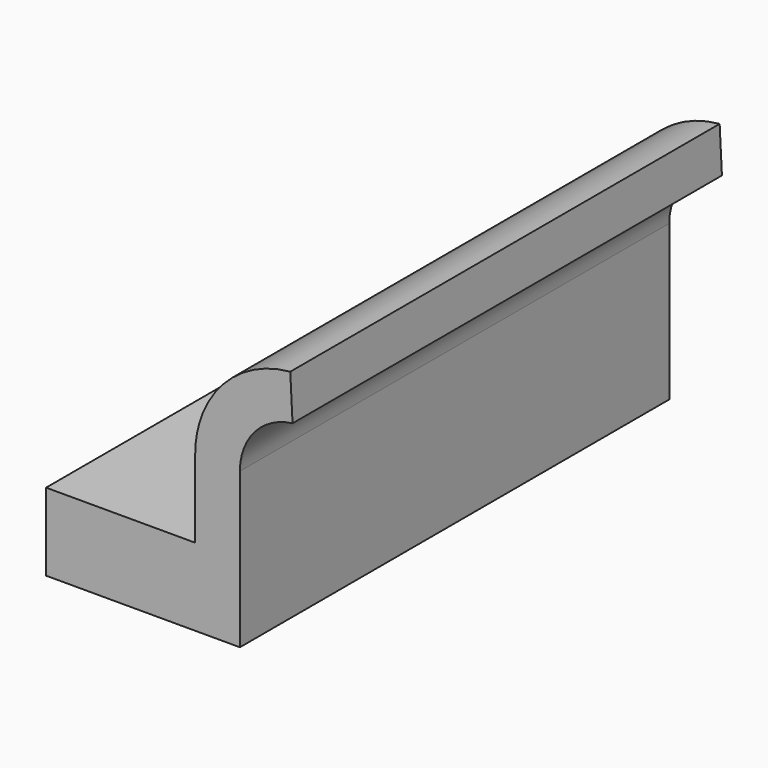
from build123d import *

# Parameters (mm, degrees)
F1_DEPTH = 114.3


with BuildPart() as f1:
    # F0 (on Front) → F1 (new body, symmetric)
    with BuildSketch(Plane.XZ):
        Polygon((22.225, 16.51), (-41.275, 16.51), (-41.275, -16.51), (41.275, -16.51), (41.275, 16.51), align=None)
        with BuildLine():
            Line((22.225, 49.53), (22.225, 16.51))
            Line((22.225, 16.51), (41.275, 16.51))
            Line((41.275, 16.51), (41.275, 49.53))
            ThreePointArc((41.275, 49.53), (47.6903840742, 66.4043698593), (63.6958156023, 74.7546795881))
            Line((63.6958156023, 74.7546795881), (62.7309858815, 93.8046795881))
            add(Edge.make_bspline(
                [(25.4190533775, 66.0753730173), (37.8563642122, 75.3184752076), (50.2936750468, 84.5615773979), (62.7309858815, 93.8046795881)],
                knots=[83.0952643552, 83.0952643552, 83.0952643552, 83.0952643552, 129.5828406535, 129.5828406535, 129.5828406535, 129.5828406535], degree=3))
            ThreePointArc((25.4190533775, 66.0753730173), (23.0308175276, 57.9554279603), (22.225, 49.53))
        make_face()
        with BuildLine():
            ThreePointArc((62.7309858815, 93.8046795881), (40.1610843429, 85.2065297714), (25.4190533775, 66.0753730173))
            add(Edge.make_bspline(
                [(25.4190533775, 66.0753730173), (37.8563642122, 75.3184752076), (50.2936750468, 84.5615773979), (62.7309858815, 93.8046795881)],
                knots=[83.0952643552, 83.0952643552, 83.0952643552, 83.0952643552, 129.5828406535, 129.5828406535, 129.5828406535, 129.5828406535], degree=3))
        make_face()
    extrude(amount=F1_DEPTH, both=True)


solid = f1.part
